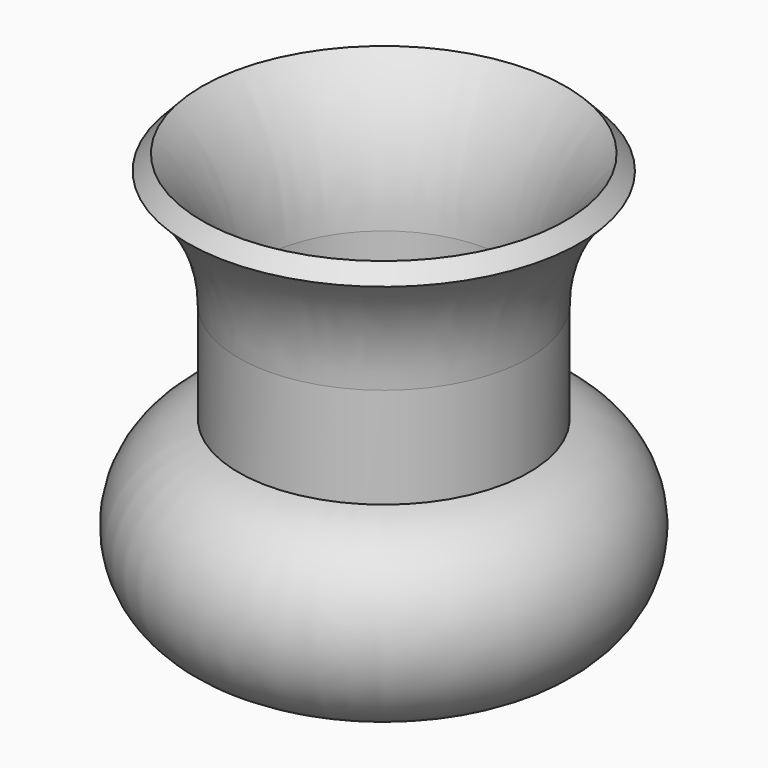
from build123d import *


with BuildPart() as f1:
    # F0 (on Front) → F1 (revolve)
    with BuildSketch(Plane.XZ):
        with BuildLine():
            Line((-18.117648, 0), (0, 0))
            Line((0, 0), (0, 3))
            Line((0, 3), (-18.117648, 3))
            ThreePointArc((-18.117648, 3), (-28.820541, 13.836075), (-17.852942, 24.404151))
            Line((-17.852942, 24.404151), (-17.852942, 41.588239))
            ThreePointArc((-17.852942, 41.588239), (-20.005634, 51.978524), (-26.109305, 60.658231))
            Line((-26.109305, 60.658231), (-28.162166, 58.470592))
            ThreePointArc((-28.162166, 58.470592), (-22.758685, 50.786589), (-20.852942, 41.588239))
            Line((-20.852942, 41.588239), (-20.852942, 27.131664))
            ThreePointArc((-20.852942, 27.131664), (-31.752245, 12.329132), (-18.117648, 0))
        make_face()
    revolve(axis=Axis((0, 0, 1.5), (0, 0, -1)))


solid = f1.part
